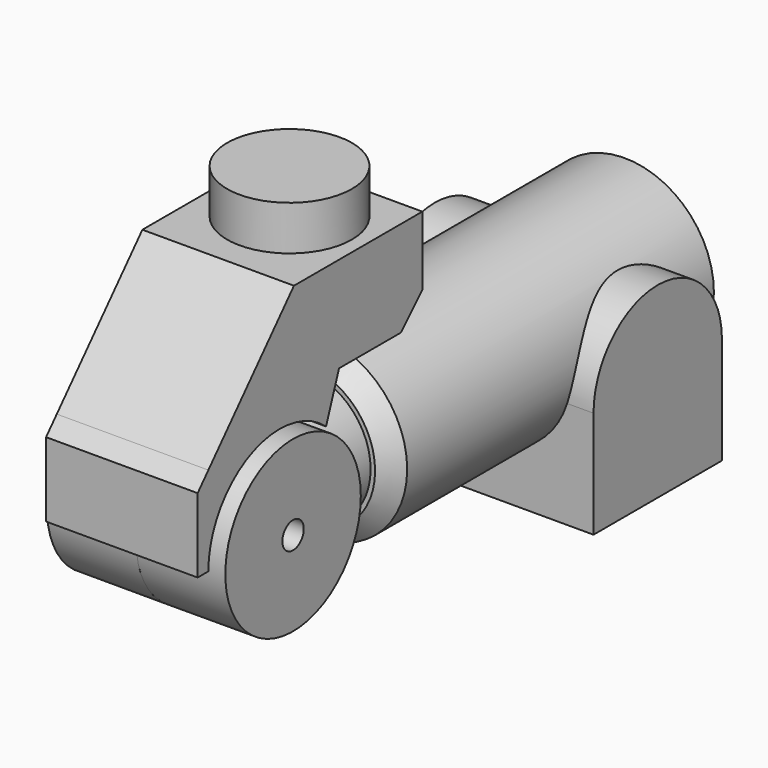
from build123d import *

# Parameters (mm, degrees)
F0_R      = 10
F1_DEPTH  = 22.5
F2_R      = 7.5
F3_DEPTH  = 10
F4_R      = 9.5
F5_DEPTH  = 10
F6_SIZE   = 2
F8_DEPTH  = 8.5
F9_R      = 7
F10_DEPTH = 5
F11_R     = 10
F12_DEPTH = 25
F13_R     = 9.5
F14_DEPTH = 10
F16_DEPTH = 8.5
F17_DEPTH = 1.5
F19_DEPTH = 12.5
F20_R     = 1.5
F21_DEPTH = 12.5
F23_DEPTH = 12.5
F24_R     = 2.5
F25_DEPTH = 10
F26_SIZE  = 3


with BuildPart() as f1:
    # F0 (on Front) → F1 (new body, symmetric)
    with BuildSketch(Plane.XZ):
        Circle(F0_R)
    extrude(amount=F1_DEPTH, both=True)

    # F2 (on face) → F3 (join)
    with BuildSketch(Plane.XZ.offset(22.5)):
        Circle(F2_R)
    extrude(amount=F3_DEPTH)

    # F4 (on Right) → F5 (join, symmetric)
    with BuildSketch(Plane.YZ):
        with Locations((-36.5, 0)):
            Circle(F4_R)
    extrude(amount=F5_DEPTH, both=True)

    # F6
    f6_edges = [f1.edges().sort_by_distance(p)[0] for p in [
        (-10, -22.5, 0),
    ]]
    chamfer(f6_edges, length=F6_SIZE)

    # F11 (on Right) → F12 (cut)
    with BuildSketch(Plane.YZ):
        with Locations((-36.5, 0)):
            Circle(F11_R)
    extrude(amount=-F12_DEPTH, mode=Mode.SUBTRACT)


with BuildPart() as f8:
    # F7 (on Right) → F8 (new body, symmetric)
    with BuildSketch(Plane.YZ):
        with BuildLine():
            ThreePointArc((-46.5, 0), (-40.6833001327, 9.0829510623), (-30, 7.5993420768))
            Line((-30, 7.5993420768), (-28.1801488287, 12.5993420768))
            Line((-28.1801488287, 12.5993420768), (-16.5, 12.5993420768))
            Line((-16.5, 12.5993420768), (-16.5, 23.327350178))
            Line((-16.5, 23.327350178), (-34.5, 23.327350178))
            Line((-34.5, 23.327350178), (-46.5, 10))
            Line((-46.5, 10), (-46.5, 0))
        make_face()
    extrude(amount=F8_DEPTH, both=True)

    # F9 (on face) → F10 (join)
    with BuildSketch(Plane.XY.offset(23.327350178)):
        with Locations((0, -24.5)):
            Circle(F9_R)
    extrude(amount=F10_DEPTH)

    # F17 (add): a face of the model
    f17_faces = [f8.faces().sort_by_distance(p)[0] for p in [
        (0, -46.5, 5),
    ]]


with BuildPart() as f14:
    # F13 (on Right) → F14 (new body)
    with BuildSketch(Plane.YZ):
        with Locations((-36.5, 0)):
            Circle(F13_R)
    extrude(amount=-F14_DEPTH)

    # F15 (on Right) → F16 (join, through all)
    with BuildSketch(Plane.YZ):
        with BuildLine():
            Line((-30, 6.9282032303), (-30, 7.5993420768))
            ThreePointArc((-30, 7.5993420768), (-40.6833001327, 9.0829510623), (-46.5, 0))
            Line((-46.5, 0), (-46, 0))
            ThreePointArc((-46, 0), (-32.7250827824, -8.7177978871), (-30, 6.9282032303))
        make_face()
    extrude(amount=-F16_DEPTH)


with BuildPart() as f8_1:
    add(f8.part)

    add(f14.part)  # F17 merges F14
    extrude(f17_faces, amount=F17_DEPTH)

    # F18 (on Right) → F19 (cut, symmetric)
    with BuildSketch(Plane.YZ):
        Polygon((-51.5, 4.4469374259), (-46.5, 10), (-51.5, 10), align=None)
    extrude(amount=F19_DEPTH, both=True, mode=Mode.SUBTRACT)


with BuildPart() as f21_tool:
    # F20 (on Right) → F21 (new body, symmetric)
    with BuildSketch(Plane.YZ):
        with Locations((-36.5, 0)):
            Circle(F20_R)
    extrude(amount=F21_DEPTH, both=True)


with BuildPart() as f1_1:
    add(f1.part)

    # F21: cut by f21_tool
    add(f21_tool.part, mode=Mode.SUBTRACT)

    # F22 (on Right) → F23 (join, symmetric)
    with BuildSketch(Plane.YZ):
        with BuildLine():
            Line((20.5, -15), (20.5, -3))
            ThreePointArc((20.5, -3), (11.5, 6), (2.5, -3))
            Line((2.5, -3), (2.5, -15))
            Line((2.5, -15), (20.5, -15))
        make_face()
    extrude(amount=F23_DEPTH, both=True)

    # F24 (on face) → F25 (cut)
    with BuildSketch(Plane(origin=(0, 0, -15), x_dir=(1, 0, 0), z_dir=(0, 0, -1))):
        with Locations((0, -11.5)):
            Circle(F24_R)
    extrude(amount=-F25_DEPTH, mode=Mode.SUBTRACT)


with BuildPart() as f8_2:
    add(f8_1.part)

    # F21: cut by f21_tool
    add(f21_tool.part, mode=Mode.SUBTRACT)

    # F26
    f26_edges = [f8_2.edges().sort_by_distance(p)[0] for p in [
        (0, -16.5, 12.599342),
    ]]
    chamfer(f26_edges, length=F26_SIZE)


solid = Compound([f1_1.part, f8_2.part])
